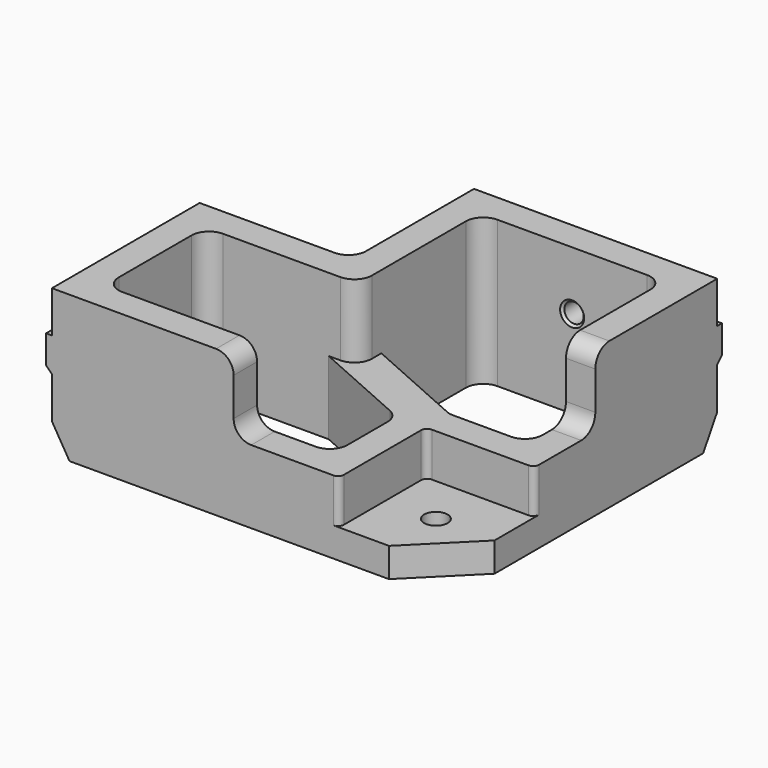
from build123d import *

# Parameters (mm, degrees)
SKETCH_R        = 2
PAD_DEPTH       = 25
SKETCH001_W     = 18.5
SKETCH001_H     = 18.5
POCKET_DEPTH    = 20
CHAMFER_SIZE    = 10
POCKET001_DEPTH = 57.501
POCKET002_DEPTH = 67.501
POCKET003_DEPTH = 25.001
SKETCH005_R     = 1.65
POCKET004_DEPTH = 67.501
SKETCH006_R     = 1.65
POCKET005_DEPTH = 57.501
SKETCH007_W     = 36.5
SKETCH007_H     = 31.5
POCKET006_DEPTH = 12.5
SKETCH008_W     = 5
SKETCH008_H     = 2.222222
POCKET007_DEPTH = 12.5
FILLET_R        = 3
FILLET001_R     = 3
FILLET002_R     = 1
CHAMFER001_SIZE = 0.4
SKETCH009_W     = 10.75
SKETCH009_H     = 5.8
PAD001_DEPTH    = 1
SKETCH010_W     = 15.75
SKETCH010_H     = 5.8
PAD002_DEPTH    = 1
CHAMFER002_SIZE = 0.99


with BuildPart() as part:
    # Sketch → Pad (new body)
    with BuildSketch(Plane.XY):
        Polygon((0, -26), (26, -26), (26, 0), (67.5, 0), (67.5, -57.5), (0, -57.5), align=None)
        with Locations((57.5, -47.5)):
            Circle(SKETCH_R, mode=Mode.SUBTRACT)
    extrude(amount=PAD_DEPTH)

    # Sketch001 (on Face9 of Pad) → Pocket (cut)
    with BuildSketch(Plane.XY.offset(25)):
        with Locations((58.25, -48.25)):
            Rectangle(SKETCH001_W, SKETCH001_H)
    extrude(amount=-POCKET_DEPTH, mode=Mode.SUBTRACT)

    # Chamfer
    chamfer_edges = [part.edges().sort_by_distance(p)[0] for p in [
        (67.5, -57.5, 2.5),
    ]]
    chamfer(chamfer_edges, length=CHAMFER_SIZE)

    # Sketch002 (on Face5 of Chamfer) → Pocket001 (cut, through all)
    with BuildSketch(Plane.XZ.offset(57.5)):
        Polygon((0, 5), (3, 0), (0, 0), align=None)
    extrude(amount=-POCKET001_DEPTH, mode=Mode.SUBTRACT)

    # Sketch003 (on Face2 of Pocket001) → Pocket002 (cut, through all)
    with BuildSketch(Plane.YZ.offset(67.5)):
        Polygon((0, 5), (-3, 0), (0, 0), align=None)
    extrude(amount=-POCKET002_DEPTH, mode=Mode.SUBTRACT)

    # Sketch004 (on Face11 of Pocket002) → Pocket003 (cut, through all)
    with BuildSketch(Plane.XY.offset(25)):
        Polygon((5, -31), (5, -52.5), (44, -52.5), (44, -39), (26, -31), align=None)
        Polygon((31, -26), (49, -34), (62.5, -34), (62.5, -5), (31, -5), align=None)
    extrude(amount=-POCKET003_DEPTH, mode=Mode.SUBTRACT)

    # Sketch005 (on Face24 of Pocket003) → Pocket004 (cut, through all)
    with BuildSketch(Plane(origin=(0, 0, 0), x_dir=(0, -1, 0), z_dir=(-1, 0, 0))):
        with Locations((41.75, 15)):
            Circle(SKETCH005_R)
    extrude(amount=-POCKET004_DEPTH, mode=Mode.SUBTRACT)

    # Sketch006 (on Face20 of Pocket004) → Pocket005 (cut, through all)
    with BuildSketch(Plane(origin=(0, 0, 0), x_dir=(-1, 0, 0), z_dir=(0, 1, 0))):
        with Locations((-46.75, 15)):
            Circle(SKETCH006_R)
    extrude(amount=-POCKET005_DEPTH, mode=Mode.SUBTRACT)

    # Sketch007 (on Face23 of Pocket005) → Pocket006 (cut)
    with BuildSketch(Plane.XY.offset(25)):
        with Locations((49.25, -41.75)):
            Rectangle(SKETCH007_W, SKETCH007_H)
    extrude(amount=-POCKET006_DEPTH, mode=Mode.SUBTRACT)

    # Sketch008 (on Face25 of Pocket006) → Pocket007 (cut)
    with BuildSketch(Plane.XY.offset(25)):
        with Locations((28.5, -32.111111)):
            Rectangle(SKETCH008_W, SKETCH008_H)
    extrude(amount=-POCKET007_DEPTH, mode=Mode.SUBTRACT)

    # Fillet
    fillet_edges = [part.edges().sort_by_distance(p)[0] for p in [
        (31, -55, 25),
        (65, -26, 25),
        (31, -55, 12.5),
        (65, -26, 12.5),
    ]]
    fillet(fillet_edges, radius=FILLET_R)

    # Fillet001
    fillet001_edges = [part.edges().sort_by_distance(p)[0] for p in [
        (5, -52.5, 12.5),
        (5, -31, 12.5),
        (31, -5, 12.5),
        (62.5, -5, 12.5),
        (62.5, -34, 6.25),
        (49, -34, 6.25),
        (44, -39, 6.25),
        (44, -52.5, 6.25),
        (31, -31, 18.75),
        (26, -26, 12.5),
    ]]
    fillet(fillet001_edges, radius=FILLET001_R)

    # Fillet002
    fillet002_edges = [part.edges().sort_by_distance(p)[0] for p in [
        (49, -57.5, 8.75),
        (49, -39, 8.75),
        (67.5, -39, 8.75),
    ]]
    fillet(fillet002_edges, radius=FILLET002_R)

    # Chamfer001
    chamfer001_edges = [part.edges().sort_by_distance(p)[0] for p in [
        (55.5, -47.5, 0),
        (48.4, 0, 15),
        (48.4, -5, 15),
        (5, -40.1, 15),
        (0, -40.1, 15),
    ]]
    chamfer(chamfer001_edges, length=CHAMFER001_SIZE)

    # Sketch009 (on Face32 of Chamfer001) → Pad001 (join)
    with BuildSketch(Plane(origin=(0, 0, 0), x_dir=(0, -1, 0), z_dir=(-1, 0, 0))):
        with Locations((31.375, 15)):
            Rectangle(SKETCH009_W, SKETCH009_H)
        with Locations((52.125, 15)):
            Rectangle(SKETCH009_W, SKETCH009_H)
    extrude(amount=PAD001_DEPTH)

    # Sketch010 (on Face31 of Pad001) → Pad002 (join)
    with BuildSketch(Plane(origin=(0, 0, 0), x_dir=(-1, 0, 0), z_dir=(0, 1, 0))):
        with Locations((-59.625, 15)):
            Rectangle(SKETCH010_W, SKETCH010_H)
        with Locations((-33.875, 15)):
            Rectangle(SKETCH010_W, SKETCH010_H)
    extrude(amount=PAD002_DEPTH)

    # Chamfer002
    chamfer002_edges = [part.edges().sort_by_distance(p)[0] for p in [
        (59.625, 1, 12.1),
        (33.875, 1, 12.1),
        (-1, -31.375, 12.1),
        (-1, -52.125, 12.1),
    ]]
    chamfer(chamfer002_edges, length=CHAMFER002_SIZE)


solid = part.part
